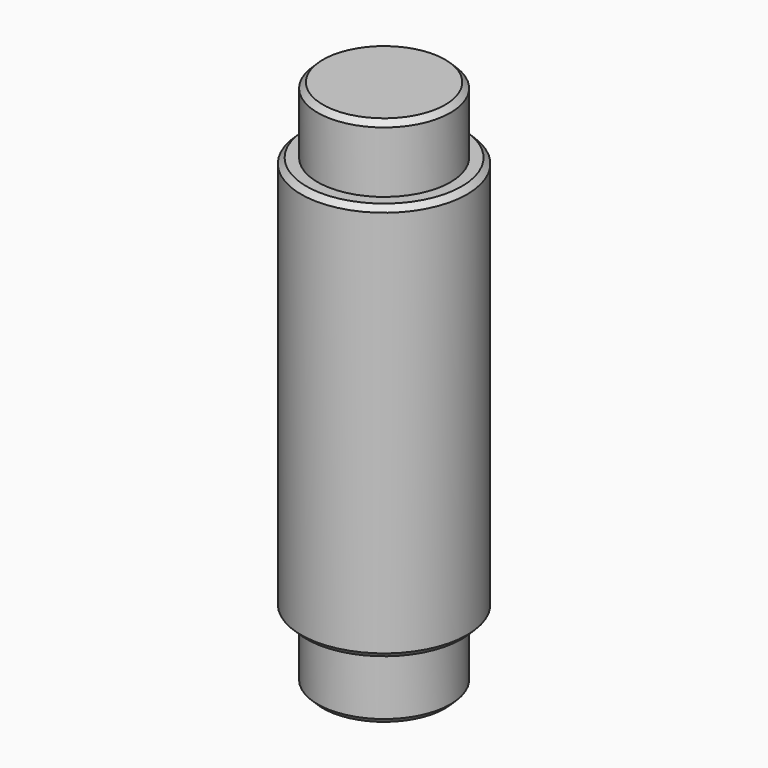
from build123d import *

# Parameters (mm, degrees)
F0_R     = 3.96875
F1_DEPTH = 9.525
F2_R     = 3.175
F3_DEPTH = 3.175
F4_R     = 3.96875
F5_DEPTH = 9.525
F6_R     = 3.175
F7_DEPTH = 3.175
F8_SIZE  = 0.254


with BuildPart() as f1:
    # F0 (on Top) → F1 (new body)
    with BuildSketch(Plane.XY):
        Circle(F0_R)
    extrude(amount=F1_DEPTH)



with BuildPart() as f3:
    # F2 (on face) → F3 (new body)
    with BuildSketch(Plane(origin=(0, 0, -9.525), x_dir=(1, 0, 0), z_dir=(0, 0, -1))):
        Circle(F2_R)
    extrude(amount=F3_DEPTH)


with BuildPart() as f1_1:
    add(f1.part)

    add(f3.part)  # F5 merges F3
    # F4 (on face) → F5 (join)
    with BuildSketch(Plane(origin=(0, 0, 0), x_dir=(1, 0, 0), z_dir=(0, 0, -1))):
        Circle(F4_R)
    extrude(amount=F5_DEPTH)

    # F6 (on face) → F7 (join)
    with BuildSketch(Plane.XY.offset(9.525)):
        Circle(F6_R)
    extrude(amount=F7_DEPTH)

    # F8
    f8_edges = [f1_1.edges().sort_by_distance(p)[0] for p in [
        (-3.175, 0, -12.7),
        (-3.96875, 0, 9.525),
        (-3.96875, 0, -9.525),
        (-3.175, 0, 12.7),
    ]]
    chamfer(f8_edges, length=F8_SIZE)


solid = f1_1.part
